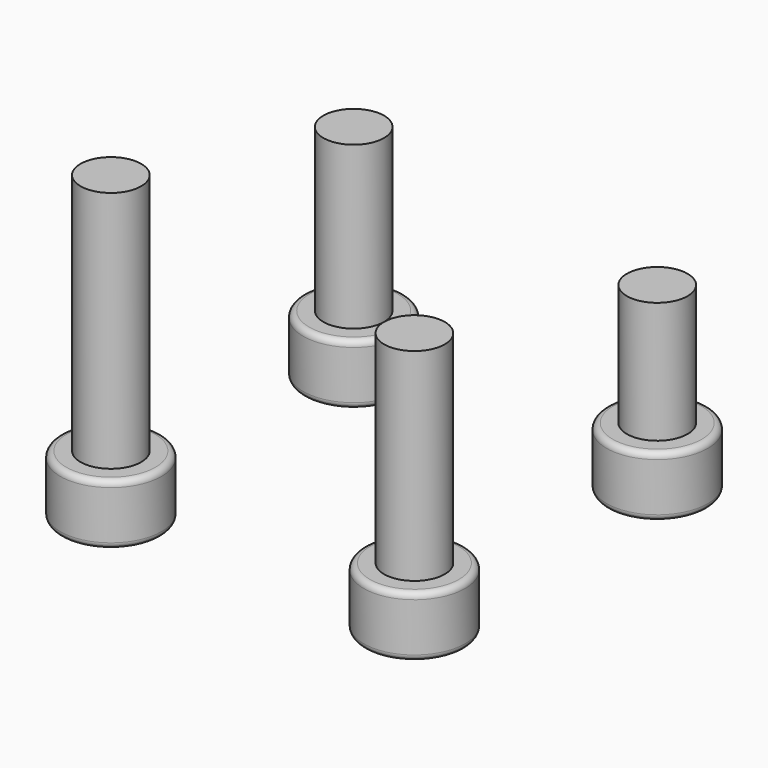
from build123d import *

# Parameters (mm, degrees)
F0_R      = 2.5
F1_DEPTH  = 2
F3_R      = 2.5
F4_DEPTH  = 1
F6_R      = 1.5
F7_DEPTH  = 6
F8_DEPTH  = 8
F9_DEPTH  = 10
F10_DEPTH = 12
F11_R     = 0.3


with BuildPart() as f1:
    # F0 (on Top) → F1 (new body)
    with BuildSketch(Plane.XY):
        with Locations((-7.5, -7.5)):
            Circle(F0_R)
        Polygon((-6.082945, -7.22561), (-6.553844, -8.59001), (-7.970899, -8.8644), (-8.917055, -7.77439), (-8.446156, -6.40999), (-7.029101, -6.1356), align=None, mode=Mode.SUBTRACT)
        with Locations((7.5, -7.5)):
            Circle(F0_R)
        Polygon((8.917055, -7.22561), (8.446156, -8.59001), (7.029101, -8.8644), (6.082945, -7.77439), (6.553844, -6.40999), (7.970899, -6.1356), align=None, mode=Mode.SUBTRACT)
        with Locations((-7.5, 7.5)):
            Circle(F0_R)
        Polygon((-6.118962, 7.919605), (-6.446093, 6.513789), (-7.827131, 6.094184), (-8.881038, 7.080395), (-8.553907, 8.486211), (-7.172869, 8.905816), align=None, mode=Mode.SUBTRACT)
        with Locations((7.5, 7.5)):
            Circle(F0_R)
        Polygon((8.92324, 7.740253), (8.419686, 6.387565), (6.996446, 6.147311), (6.07676, 7.259747), (6.580314, 8.612435), (8.003554, 8.852689), align=None, mode=Mode.SUBTRACT)
    extrude(amount=F1_DEPTH)

    # F3 (on offset) → F4 (join)
    with BuildSketch(Plane.XY.offset(2)):
        with Locations((-7.5, 7.5)):
            Circle(F3_R)
        with Locations((-7.5, -7.5)):
            Circle(F3_R)
        with Locations((7.5, -7.5)):
            Circle(F3_R)
        with Locations((7.5, 7.5)):
            Circle(F3_R)
    extrude(amount=F4_DEPTH)

    # F6 (on offset) → F7 (join)
    with BuildSketch(Plane.XY.offset(3)):
        with Locations((7.5, 7.5)):
            Circle(F6_R)
    extrude(amount=F7_DEPTH)

    # F6 (on offset) → F8 (join)
    with BuildSketch(Plane.XY.offset(3)):
        with Locations((-7.5, 7.5)):
            Circle(F6_R)
    extrude(amount=F8_DEPTH)

    # F6 (on offset) → F9 (join)
    with BuildSketch(Plane.XY.offset(3)):
        with Locations((7.5, -7.5)):
            Circle(F6_R)
    extrude(amount=F9_DEPTH)

    # F6 (on offset) → F10 (join)
    with BuildSketch(Plane.XY.offset(3)):
        with Locations((-7.5, -7.5)):
            Circle(F6_R)
    extrude(amount=F10_DEPTH)

    # F11
    f11_edges = [f1.edges().sort_by_distance(p)[0] for p in [
        (-10, -7.5, 3),
        (-10, -7.5, 0),
        (-10, 7.5, 3),
        (-10, 7.5, 0),
        (5, 7.5, 3),
        (5, 7.5, 0),
        (5, -7.5, 3),
        (5, -7.5, 0),
    ]]
    fillet(f11_edges, radius=F11_R)


solid = f1.part
